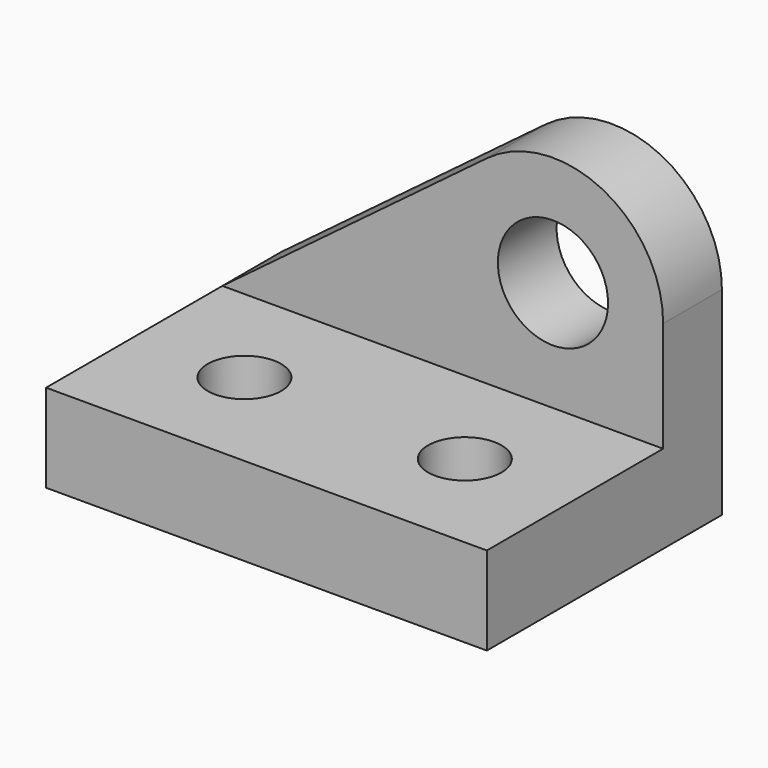
from build123d import *

# Parameters (mm, degrees)
F0_W     = 60
F0_H     = 12
F1_DEPTH = 40
F0_R     = 7.5
F2_DEPTH = 10
F3_R     = 5
F4_DEPTH = 12


with BuildPart() as f1:
    # F0 (on Front) → F1 (new body)
    with BuildSketch(Plane.XZ):
        with Locations((30, 6)):
            Rectangle(F0_W, F0_H)
    extrude(amount=F1_DEPTH)

    # F0 (on Front) → F2 (join)
    with BuildSketch(Plane.XZ):
        with BuildLine():
            Line((36, 39), (0, 12))
            Line((0, 12), (60, 12))
            Line((60, 12), (60, 27))
            ThreePointArc((60, 27), (51.708204, 40.416408), (36, 39))
        make_face()
        with Locations((45, 27)):
            Circle(F0_R, mode=Mode.SUBTRACT)
    extrude(amount=F2_DEPTH)

    # F3 (on face) → F4 (cut, through all)
    with BuildSketch(Plane.XY.offset(12)):
        with Locations((15, -25)):
            Circle(F3_R)
        with Locations((45, -25)):
            Circle(F3_R)
    extrude(amount=-F4_DEPTH, mode=Mode.SUBTRACT)


solid = f1.part
